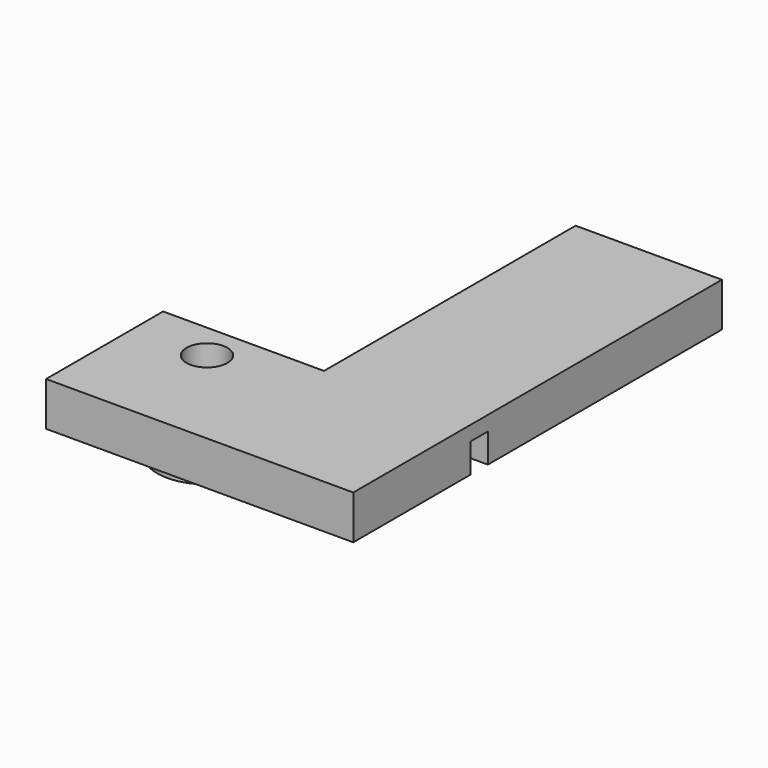
from build123d import *

# Parameters (mm, degrees)
CYLINDER005_R     = 1.4
CYLINDER005_DEPTH = 10
EXTRUDE001_DEPTH  = 2
SKETCH002_R       = 1.4
EXTRUDE002_DEPTH  = 6
EXTRUDE_DEPTH     = 1


with BuildPart() as cylinder005:
    # Cylinder005 → Cylinder005 (new body)
    with BuildSketch(Plane(origin=(-5, 2.5, -5), x_dir=(1, 0, 0), z_dir=(0, 0, 1))):
        Circle(CYLINDER005_R)
    extrude(amount=CYLINDER005_DEPTH)


with BuildPart() as extrude001:
    # Sketch001 → Extrude001 (new body)
    with BuildSketch(Plane.XY.offset(10)):
        Polygon((-21, 10), (0, 10), (0, 9), (-20, 9), (-20, 1), (0, 1), (0, 0), (-21, 0), align=None)
        Polygon((-21, -1.5), (-12.25, -1.5), (-12.25, -21.5), (-13.25, -21.5), (-13.25, -2.5), (-20, -2.5), (-20, -21.5), (-21, -21.5), align=None)
    extrude(amount=-EXTRUDE001_DEPTH)


with BuildPart() as extrude001_1:
    # Extrude001 placement: moved
    add(extrude001.part.moved(Location((0, 0, -8))))


with BuildPart() as extrude002:
    # Sketch002 → Extrude002 (new body)
    with BuildSketch(Plane.XY.offset(10)):
        with BuildLine():
            ThreePointArc((-2.695656, 0), (-5, 5.9), (-7.304344, 0))
            Line((-7.304344, 0), (-2.695656, 0))
        make_face()
        with Locations((-5, 2.5)):
            Circle(SKETCH002_R, mode=Mode.SUBTRACT)
    extrude(amount=-EXTRUDE002_DEPTH)


with BuildPart() as extrude002_1:
    # Extrude002 placement: moved
    add(extrude002.part.moved(Location((0, 0, -7))))


with BuildPart() as body001:
    # Sketch → Extrude (new body)
    with BuildSketch(Plane.XY):
        Polygon((-11, 0), (0, 0), (0, 10), (-21, 10), (-21, -21.5), (-11, -21.5), align=None)
    extrude(amount=EXTRUDE_DEPTH)


with BuildPart() as body001_1:
    # Extrude placement: moved
    add(body001.part.moved(Location((0, 0, 2))))

    # Fusion012: union Extrude001, Extrude002
    add(extrude001_1.part)
    add(extrude002_1.part)

    # Cut001: cut Cylinder005
    add(cylinder005.part, mode=Mode.SUBTRACT)


with BuildPart() as body003:
    # Part__Mirroring002: instance of Body001
    add(body001_1.part.mirror(Plane(origin=(0, -21.5, 0), x_dir=(1, 0, 0), z_dir=(0, 1, 0))))


with BuildPart() as part_mirroring004:
    # Part__Mirroring004: instance of Body003
    add(body003.part.mirror(Plane(origin=(0, -21.5, 0), x_dir=(0, -1, 0), z_dir=(1, 0, 0))))


solid = part_mirroring004.part
